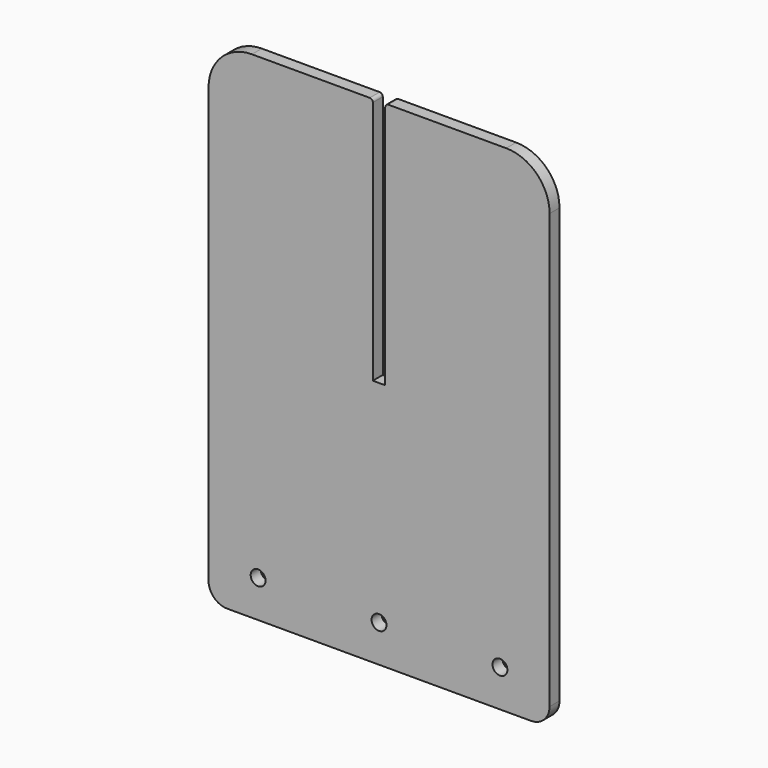
from build123d import *

# Parameters (mm, degrees)
F0_R     = 3.81
F1_DEPTH = 3.175


with BuildPart() as f1:
    # F0 (on Front) → F1 (new body, symmetric)
    with BuildSketch(Plane.XZ):
        with BuildLine():
            Line((-4.7625, 127), (-65.0875, 127))
            ThreePointArc((-65.0875, 127), (-80.802948, 120.490448), (-87.3125, 104.775))
            Line((-87.3125, 104.775), (-87.3125, -117.475))
            ThreePointArc((-87.3125, -117.475), (-84.522692, -124.210192), (-77.7875, -127))
            Line((-77.7875, -127), (77.7875, -127))
            ThreePointArc((77.7875, -127), (84.522692, -124.210192), (87.3125, -117.475))
            Line((87.3125, -117.475), (87.3125, 104.775))
            ThreePointArc((87.3125, 104.775), (80.802948, 120.490448), (65.0875, 127))
            Line((65.0875, 127), (4.7625, 127))
            ThreePointArc((4.7625, 127), (3.639968, 126.535032), (3.175, 125.4125))
            Line((3.175, 125.4125), (3.175, 0))
            Line((3.175, 0), (0, 0))
            Line((0, 0), (-3.175, 0))
            Line((-3.175, 0), (-3.175, 125.4125))
            ThreePointArc((-3.175, 125.4125), (-3.639968, 126.535032), (-4.7625, 127))
        make_face()
        with Locations((-61.9125, -107.95)):
            Circle(F0_R, mode=Mode.SUBTRACT)
        with Locations((0, -107.95)):
            Circle(F0_R, mode=Mode.SUBTRACT)
        with Locations((61.9125, -107.95)):
            Circle(F0_R, mode=Mode.SUBTRACT)
    extrude(amount=F1_DEPTH, both=True)


solid = f1.part
